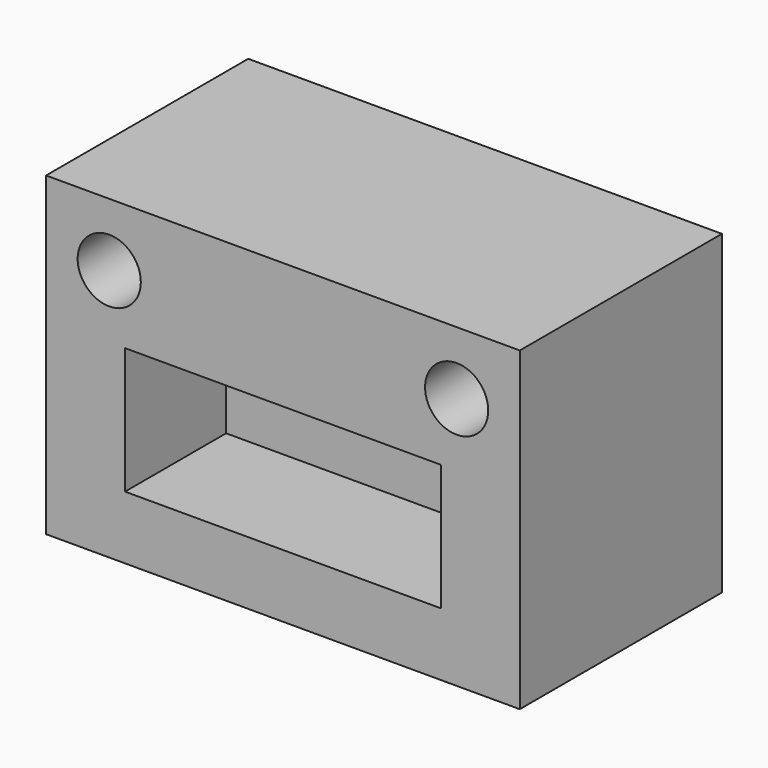
from build123d import *

# Parameters (mm, degrees)
F0_W     = 19.05
F0_H     = 12.7
F1_DEPTH = 10.16
F2_W     = 12.7
F2_H     = 5.08
F3_DEPTH = 5.08
F4_R     = 1.27
F5_DEPTH = 10.16


with BuildPart() as f1:
    # F0 (on Front) → F1 (new body)
    with BuildSketch(Plane.XZ):
        with Locations((0, 6.35)):
            Rectangle(F0_W, F0_H)
    extrude(amount=F1_DEPTH)

    # F2 (on face) → F3 (cut)
    with BuildSketch(Plane.XZ.offset(10.16)):
        with Locations((0, 5.08)):
            Rectangle(F2_W, F2_H)
    extrude(amount=-F3_DEPTH, mode=Mode.SUBTRACT)

    # F4 (on face) → F5 (cut)
    with BuildSketch(Plane.XZ.offset(10.16)):
        with Locations((6.985, 10.16)):
            Circle(F4_R)
        with Locations((-6.985, 10.16)):
            Circle(F4_R)
    extrude(amount=-F5_DEPTH, mode=Mode.SUBTRACT)


solid = f1.part
